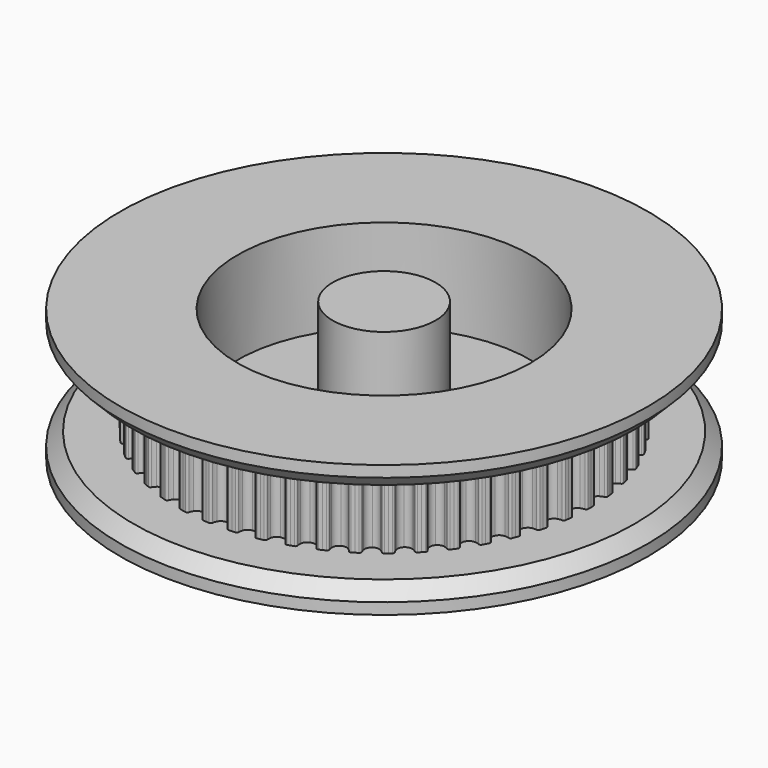
from build123d import *

# Parameters (mm, degrees)
F3_R           = 20
F4_DEPTH       = 1.85
F6_DEPTH       = 6.3
F7_COUNT       = 50
F8_START       = -8.15
F4_FACE1_R     = 20
F8_DEPTH       = 1.85
F9_R           = 11.1
F9_R_2         = 10.9
F9_R_3         = 6
F9_R_4         = 3.9
F10_DEPTH      = 7
F11_DEPTH      = 0.5
F11_DEPTH_BACK = 7
F12_SIZE       = 1


with BuildPart() as f4:
    # F3 (on Top) → F4 (new body)
    with BuildSketch(Plane.XY):
        Circle(F3_R)
    extrude(amount=F4_DEPTH)



with BuildPart() as f6:
    # F5 (on face) → F6 (new body)
    with BuildSketch(Plane.XY.offset(1.85)):
        with BuildLine():
            Line((0, -14.9114943092), (0, 0))
            Line((0, 0), (-1.868905799, -14.7939127227))
            ThreePointArc((-1.868905799, -14.7939127227), (-1.5876490729, -14.9144751497), (-1.4130418046, -15.16577765))
            ThreePointArc((-1.4130418046, -15.16577765), (-1.374893821, -15.3145012552), (-1.3599628546, -15.4673117445))
            ThreePointArc((-1.3599628546, -15.4673117445), (-1.3190672748, -15.5672002324), (-1.2216954896, -15.6137716176))
            ThreePointArc((-1.2216954896, -15.6137716176), (-1.102576495, -15.6226351513), (-0.9833933643, -15.6305899277))
            ThreePointArc((-0.9833933643, -15.6305899277), (-0.8641530303, -15.6376354842), (-0.7448624292, -15.643771411))
            ThreePointArc((-0.7448624292, -15.643771411), (-0.6424215074, -15.6097711757), (-0.5893290542, -15.5157959137))
            ThreePointArc((-0.5893290542, -15.5157959137), (-0.5553635902, -15.366061727), (-0.4988764045, -15.223292062))
            ThreePointArc((-0.4988764045, -15.223292062), (-0.2941494117, -14.9958552505), (0, -14.9114943092))
        make_face()
    extrude(amount=F6_DEPTH)


with BuildPart() as f4_1:
    add(f4.part)

    add(f6.part)  # F7 merges F6
    # F7: F6 ×50 about axis
    f7_axis = Axis((0, 0, 5), (0, 0, -1))
    for i in range(1, F7_COUNT):
        add(f6.part.rotate(f7_axis, i * 360 / F7_COUNT))

    # F4_face1 (on face) → F8 (join)
    with BuildSketch(Plane(origin=(0, 0, 0), x_dir=(1, 0, 0), z_dir=(0, 0, -1)).offset(F8_START)):
        Circle(F4_FACE1_R)
    extrude(amount=-F8_DEPTH)

    # F9 (on face) → F10 (cut)
    with BuildSketch(Plane.XY.offset(10)):
        Circle(F9_R)
        Circle(F9_R_2, mode=Mode.SUBTRACT)
        Circle(F9_R_2)
        Circle(F9_R_3, mode=Mode.SUBTRACT)
        Circle(F9_R_3)
        Circle(F9_R_4, mode=Mode.SUBTRACT)
        Circle(F9_R_4)
    extrude(amount=-F10_DEPTH, mode=Mode.SUBTRACT)

    # F12
    f12_edges = [f4_1.edges().sort_by_distance(p)[0] for p in [
        (-20, 0, 8.15),
        (-20, 0, 1.85),
    ]]
    chamfer(f12_edges, length=F12_SIZE)


with BuildPart() as f11:
    # F9 (on face) → F11 (new body, two sides)
    with BuildSketch(Plane.XY.offset(10)) as f11_sk:
        Circle(F9_R_4)
    extrude(amount=F11_DEPTH)
    extrude(f11_sk.sketch, amount=-F11_DEPTH_BACK)


solid = Compound([f4_1.part, f11.part])
